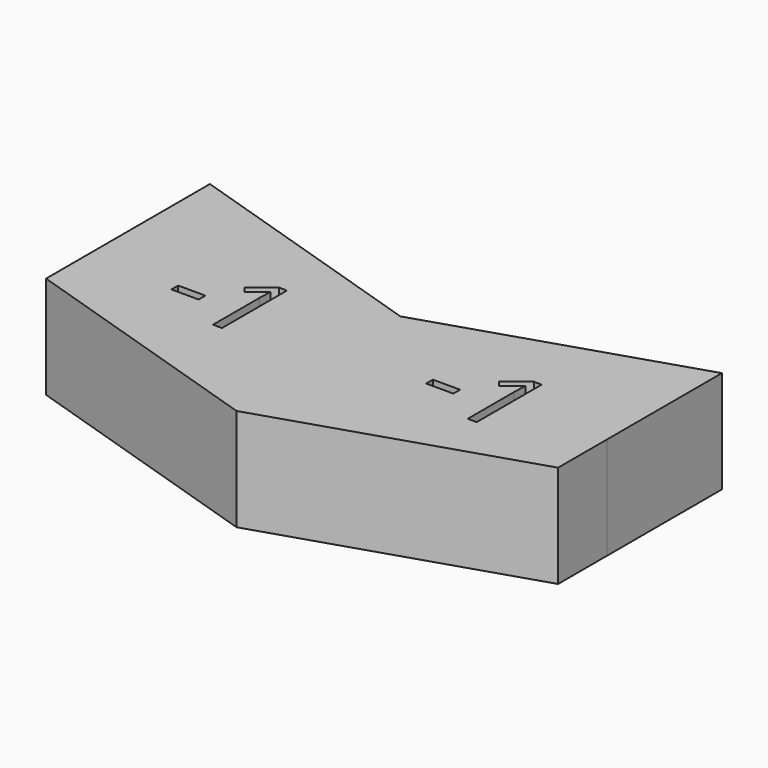
from build123d import *

# Parameters (mm, degrees)
F0_W     = 1.3315972222
F0_H     = 0.4123263889
F1_DEPTH = 5


with BuildPart() as f1:
    # F0 (on Top) → F1 (new body)
    with BuildSketch(Plane.XY):
        Polygon((12.500337261, -0.0003896045), (25, 4.0001663682), (25, 7.0001063117), (24.9996627433, 14.0002126143), (12.499855473, 9.9996103839), (-0.0003372277, 13.9990081442), (0, 6.9995040762), (0.0001445603, 3.9990081558), align=None)
        with Locations((4.9571868872, 6.4887512591)):
            Rectangle(F0_W, F0_H, mode=Mode.SUBTRACT)
        with BuildLine():
            Line((7.789652165, 8.9657477869), (7.789652165, 4.9996019536))
            Line((7.789652165, 4.9996019536), (7.3504160538, 4.9996019536))
            Line((7.3504160538, 4.9996019536), (7.3504160538, 7.8259908425))
            add(Edge.make_bspline(
                [(7.3504160538, 7.8259908425), (7.3504160538, 8.1792894536), (7.3721174427, 8.4935255647)],
                knots=[0, 0, 0, 1, 1, 1], degree=2))
            add(Edge.make_bspline(
                [(7.3721174427, 8.4935255647), (7.3156938316, 8.436233898), (7.2449473038, 8.3741679258)],
                knots=[0, 0, 0, 1, 1, 1], degree=2))
            add(Edge.make_bspline(
                [(7.2449473038, 8.3741679258), (7.1742007761, 8.3121019536), (6.5995479983, 7.8450880647)],
                knots=[0, 0, 0, 1, 1, 1], degree=2))
            Line((6.5995479983, 7.8450880647), (6.3608327205, 8.1541158425))
            Line((6.3608327205, 8.1541158425), (7.4103118872, 8.9657477869))
            Line((7.4103118872, 8.9657477869), (7.789652165, 8.9657477869))
        make_face(mode=Mode.SUBTRACT)
        with Locations((17.3940972222, 6.4891493056)):
            Rectangle(F0_W, F0_H, mode=Mode.SUBTRACT)
        with BuildLine():
            Line((20.2265625, 8.9661458333), (20.2265625, 5))
            Line((20.2265625, 5), (19.7873263889, 5))
            Line((19.7873263889, 5), (19.7873263889, 7.8263888889))
            add(Edge.make_bspline(
                [(19.7873263889, 7.8263888889), (19.7873263889, 8.1796875), (19.8090277778, 8.4939236111)],
                knots=[0, 0, 0, 1, 1, 1], degree=2))
            add(Edge.make_bspline(
                [(19.8090277778, 8.4939236111), (19.7526041667, 8.4366319444), (19.6818576389, 8.3745659722)],
                knots=[0, 0, 0, 1, 1, 1], degree=2))
            add(Edge.make_bspline(
                [(19.6818576389, 8.3745659722), (19.6111111111, 8.3125), (19.0364583333, 7.8454861111)],
                knots=[0, 0, 0, 1, 1, 1], degree=2))
            Line((19.0364583333, 7.8454861111), (18.7977430556, 8.1545138889))
            Line((18.7977430556, 8.1545138889), (19.8472222222, 8.9661458333))
            Line((19.8472222222, 8.9661458333), (20.2265625, 8.9661458333))
        make_face(mode=Mode.SUBTRACT)
    extrude(amount=F1_DEPTH)


solid = f1.part
